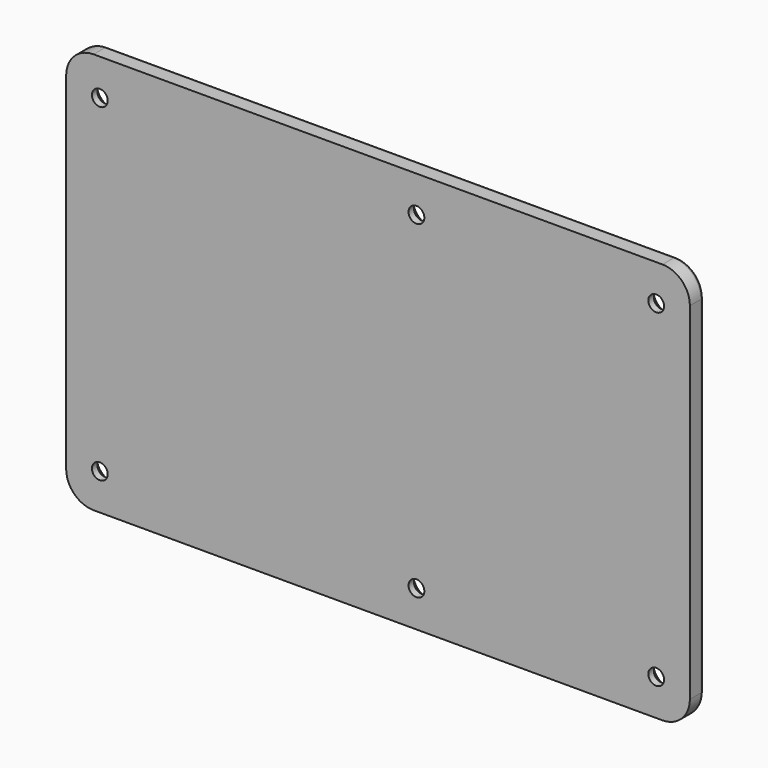
from build123d import *

# Parameters (mm, degrees)
F0_W           = 144.5006
F0_H           = 92.9894
F1_DEPTH       = 3.9624
F3_D           = 3.6576
F3_CSINK_D     = 7.7978
F3_CSINK_ANGLE = 82
F4_R           = 6.35
F5_R           = 0.762


with BuildPart() as f1:
    # F0 (on Front) → F1 (new body)
    with BuildSketch(Plane.XZ):
        Rectangle(F0_W, F0_H)
    extrude(amount=-F1_DEPTH)

    # F3 (through all)
    with Locations(Plane(origin=(0, 3.9624, 0), x_dir=(-1, 0, 0), z_dir=(0, 1, 0))):
        with Locations((-64.4525, 38.0873), (-8.9027, 38.0873), (64.4525, 38.0873), (64.4525, -38.0873), (-8.9027, -38.0873), (-64.4525, -38.0873)):
            CounterSinkHole(F3_D / 2, F3_CSINK_D / 2, counter_sink_angle=F3_CSINK_ANGLE)

    # F4
    f4_edges = [f1.edges().sort_by_distance(p)[0] for p in [
        (72.2503, 1.9812, 46.4947),
        (72.2503, 1.9812, -46.4947),
        (-72.2503, 1.9812, -46.4947),
        (-72.2503, 1.9812, 46.4947),
    ]]
    fillet(f4_edges, radius=F4_R)

    # F5
    f5_edges = [f1.edges().sort_by_distance(p)[0] for p in [
        (0, 3.9624, -46.4947),
    ]]
    fillet(f5_edges, radius=F5_R)


solid = f1.part
